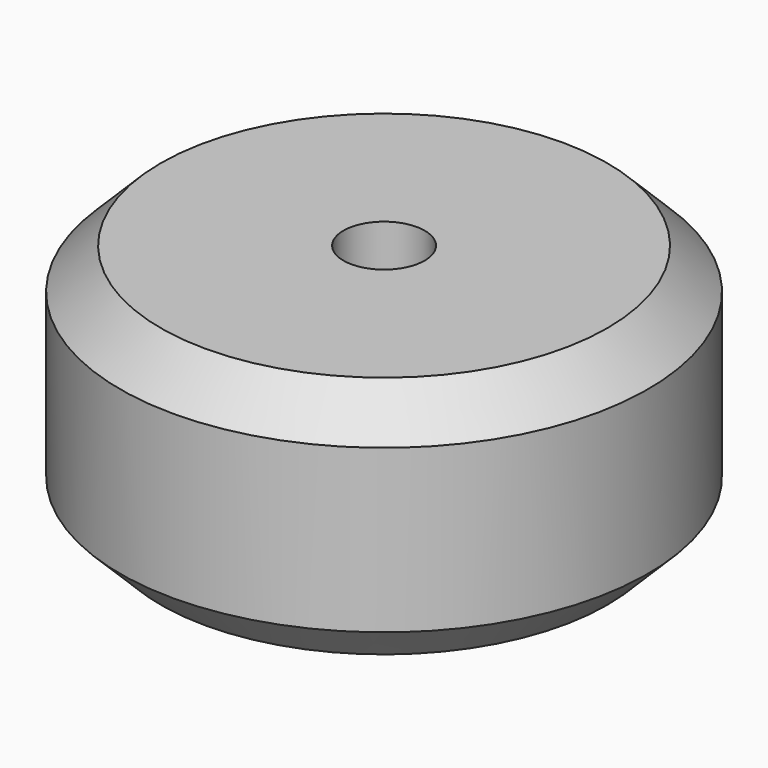
from build123d import *

# Parameters (mm, degrees)
F0_W    = 34.9249993301
F0_H    = 38.1
F2_SIZE = 6.35


with BuildPart() as f1:
    # F0 (on Right) → F1 (revolve)
    with BuildSketch(Plane.YZ):
        with Locations((-29.2756902054, 24.21758743)):
            Rectangle(F0_W, F0_H)
    revolve(axis=Axis((0, -5.4631905403, 23.7577594817), (0, 0, -1)))

    # F2
    f2_edges = [f1.edges().sort_by_distance(p)[0] for p in [
        (0, 35.811809, 43.267587),
        (0, 35.811809, 5.167587),
    ]]
    chamfer(f2_edges, length=F2_SIZE)


solid = f1.part
